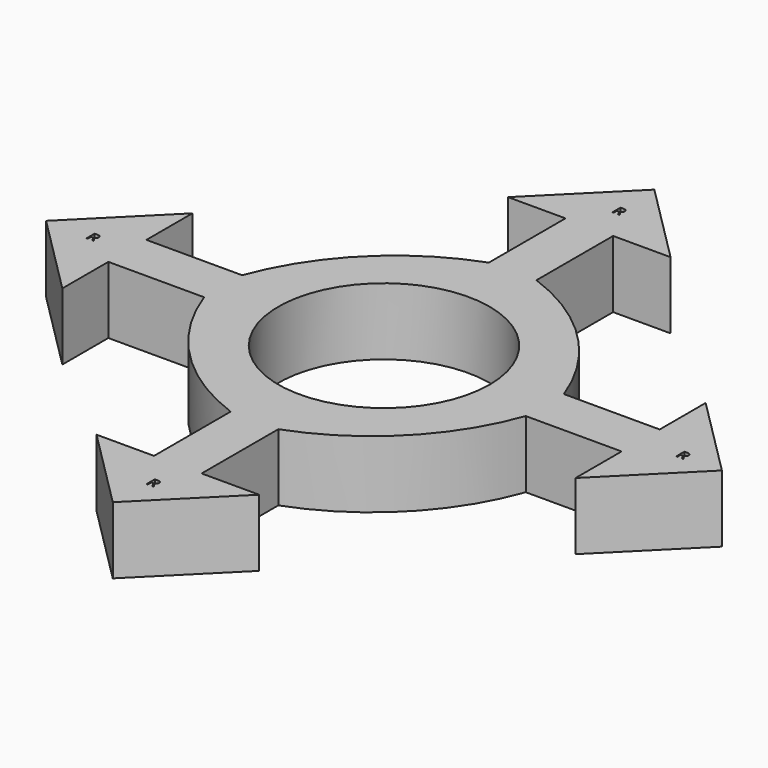
from build123d import *

# Parameters (mm, degrees)
F0_R     = 11.025
F1_DEPTH = 7


with BuildPart() as f1:
    # F0 (on Top) → F1 (new body)
    with BuildSketch(Plane.XY):
        with BuildLine():
            Line((8.4852813742, 26.7863036134), (0, 35.2715849876))
            Line((0, 35.2715849876), (-8.4852813742, 26.7863036134))
            Line((-8.4852813742, 26.7863036134), (-2.4852813742, 26.7863036134))
            Line((-2.4852813742, 26.7863036134), (-2.4852813742, 16.7863036134))
            ThreePointArc((-2.4852813742, 16.7863036134), (-11.2157675105, 11.2157675105), (-16.7863036134, 2.4852813742))
            Line((-16.7863036134, 2.4852813742), (-26.7863036134, 2.4852813742))
            Line((-26.7863036134, 2.4852813742), (-26.7863036134, 8.4852813742))
            Line((-26.7863036134, 8.4852813742), (-35.2715849876, 0))
            Line((-35.2715849876, 0), (-26.7863036134, -8.4852813742))
            Line((-26.7863036134, -8.4852813742), (-26.7863036134, -2.4852813742))
            Line((-26.7863036134, -2.4852813742), (-16.7863036134, -2.4852813742))
            ThreePointArc((-16.7863036134, -2.4852813742), (-11.2357756094, -11.2810159865), (-2.4852813742, -16.9025957584))
            Line((-2.4852813742, -16.9025957584), (-2.4852813742, -26.9025957584))
            Line((-2.4852813742, -26.9025957584), (-8.4852813742, -26.9025957584))
            Line((-8.4852813742, -26.9025957584), (0, -35.3878771327))
            Line((0, -35.3878771327), (8.4852813742, -26.9025957584))
            Line((8.4852813742, -26.9025957584), (2.4852813742, -26.9025957584))
            Line((2.4852813742, -26.9025957584), (2.4852813742, -16.9025957584))
            ThreePointArc((2.4852813742, -16.9025957584), (11.2357756094, -11.2810159865), (16.7863036134, -2.4852813742))
            Line((16.7863036134, -2.4852813742), (26.7863036134, -2.4852813742))
            Line((26.7863036134, -2.4852813742), (26.7863036134, -8.4852813742))
            Line((26.7863036134, -8.4852813742), (35.2715849876, 0))
            Line((35.2715849876, 0), (26.7863036134, 8.4852813742))
            Line((26.7863036134, 8.4852813742), (26.7863036134, 2.4852813742))
            Line((26.7863036134, 2.4852813742), (16.7863036134, 2.4852813742))
            ThreePointArc((16.7863036134, 2.4852813742), (11.2157675105, 11.2157675105), (2.4852813742, 16.7863036134))
            Line((2.4852813742, 16.7863036134), (2.4852813742, 26.7863036134))
            Line((2.4852813742, 26.7863036134), (8.4852813742, 26.7863036134))
        make_face()
        with BuildLine():
            Line((0.4957766307, -30.7123869197), (0.2719380573, -30.7123869197))
            Line((0.2719380573, -30.7123869197), (0.2719380573, -31.1581870135))
            Line((0.2719380573, -31.1581870135), (0.1473486626, -31.1581870135))
            Line((0.1473486626, -31.1581870135), (0.1473486626, -30.0861551036))
            Line((0.1473486626, -30.0861551036), (0.4413420929, -30.0861551036))
            add(Edge.make_bspline(
                [(0.4413420929, -30.0861551036), (0.6386672924, -30.0861551036), (0.7328718911, -30.161706488)],
                knots=[0, 0, 0, 1, 1, 1], degree=2))
            add(Edge.make_bspline(
                [(0.7328718911, -30.161706488), (0.8270764899, -30.2372578723), (0.8270764899, -30.3890645358)],
                knots=[0, 0, 0, 1, 1, 1], degree=2))
            add(Edge.make_bspline(
                [(0.8270764899, -30.3890645358), (0.8270764899, -30.6016407911), (0.6114500235, -30.6764882805)],
                knots=[0, 0, 0, 1, 1, 1], degree=2))
            Line((0.6114500235, -30.6764882805), (0.9026278742, -31.1581870135))
            Line((0.9026278742, -31.1581870135), (0.7552792116, -31.1581870135))
            Line((0.7552792116, -31.1581870135), (0.4957766307, -30.7123869197))
        make_face(mode=Mode.SUBTRACT)
        with BuildLine():
            Line((-30.4200164008, 0.0797443089), (-30.6438549742, 0.0797443089))
            Line((-30.6438549742, 0.0797443089), (-30.6438549742, -0.366055785))
            Line((-30.6438549742, -0.366055785), (-30.7684443689, -0.366055785))
            Line((-30.7684443689, -0.366055785), (-30.7684443689, 0.7059761249))
            Line((-30.7684443689, 0.7059761249), (-30.4744509385, 0.7059761249))
            add(Edge.make_bspline(
                [(-30.4744509385, 0.7059761249), (-30.2771257391, 0.7059761249), (-30.1829211403, 0.6304247406)],
                knots=[0, 0, 0, 1, 1, 1], degree=2))
            add(Edge.make_bspline(
                [(-30.1829211403, 0.6304247406), (-30.0887165415, 0.5548733563), (-30.0887165415, 0.4030666927)],
                knots=[0, 0, 0, 1, 1, 1], degree=2))
            add(Edge.make_bspline(
                [(-30.0887165415, 0.4030666927), (-30.0887165415, 0.1904904375), (-30.304343008, 0.115642948)],
                knots=[0, 0, 0, 1, 1, 1], degree=2))
            Line((-30.304343008, 0.115642948), (-30.0131651572, -0.366055785))
            Line((-30.0131651572, -0.366055785), (-30.1605138198, -0.366055785))
            Line((-30.1605138198, -0.366055785), (-30.4200164008, 0.0797443089))
        make_face(mode=Mode.SUBTRACT)
        Circle(F0_R, mode=Mode.SUBTRACT)
        with BuildLine():
            Line((31.1531984282, 0.0540223872), (30.9293598548, 0.0540223872))
            Line((30.9293598548, 0.0540223872), (30.9293598548, -0.3917777067))
            Line((30.9293598548, -0.3917777067), (30.8047704601, -0.3917777067))
            Line((30.8047704601, -0.3917777067), (30.8047704601, 0.6802542032))
            Line((30.8047704601, 0.6802542032), (31.0987638904, 0.6802542032))
            add(Edge.make_bspline(
                [(31.0987638904, 0.6802542032), (31.2960890899, 0.6802542032), (31.3902936886, 0.6047028189)],
                knots=[0, 0, 0, 1, 1, 1], degree=2))
            add(Edge.make_bspline(
                [(31.3902936886, 0.6047028189), (31.4844982874, 0.5291514346), (31.4844982874, 0.377344771)],
                knots=[0, 0, 0, 1, 1, 1], degree=2))
            add(Edge.make_bspline(
                [(31.4844982874, 0.377344771), (31.4844982874, 0.1647685158), (31.268871821, 0.0899210263)],
                knots=[0, 0, 0, 1, 1, 1], degree=2))
            Line((31.268871821, 0.0899210263), (31.5600496718, -0.3917777067))
            Line((31.5600496718, -0.3917777067), (31.4127010092, -0.3917777067))
            Line((31.4127010092, -0.3917777067), (31.1531984282, 0.0540223872))
        make_face(mode=Mode.SUBTRACT)
        with BuildLine():
            Line((0.1811846398, 30.4459987263), (-0.0426539337, 30.4459987263))
            Line((-0.0426539337, 30.4459987263), (-0.0426539337, 30.0001986325))
            Line((-0.0426539337, 30.0001986325), (-0.1672433283, 30.0001986325))
            Line((-0.1672433283, 30.0001986325), (-0.1672433283, 31.0722305424))
            Line((-0.1672433283, 31.0722305424), (0.126750102, 31.0722305424))
            add(Edge.make_bspline(
                [(0.126750102, 31.0722305424), (0.3240753015, 31.0722305424), (0.4182799002, 30.9966791581)],
                knots=[0, 0, 0, 1, 1, 1], degree=2))
            add(Edge.make_bspline(
                [(0.4182799002, 30.9966791581), (0.512484499, 30.9211277737), (0.512484499, 30.7693211102)],
                knots=[0, 0, 0, 1, 1, 1], degree=2))
            add(Edge.make_bspline(
                [(0.512484499, 30.7693211102), (0.512484499, 30.5567448549), (0.2968580326, 30.4818973655)],
                knots=[0, 0, 0, 1, 1, 1], degree=2))
            Line((0.2968580326, 30.4818973655), (0.5880358833, 30.0001986325))
            Line((0.5880358833, 30.0001986325), (0.4406872207, 30.0001986325))
            Line((0.4406872207, 30.0001986325), (0.1811846398, 30.4459987263))
        make_face(mode=Mode.SUBTRACT)
    extrude(amount=F1_DEPTH)


solid = f1.part
